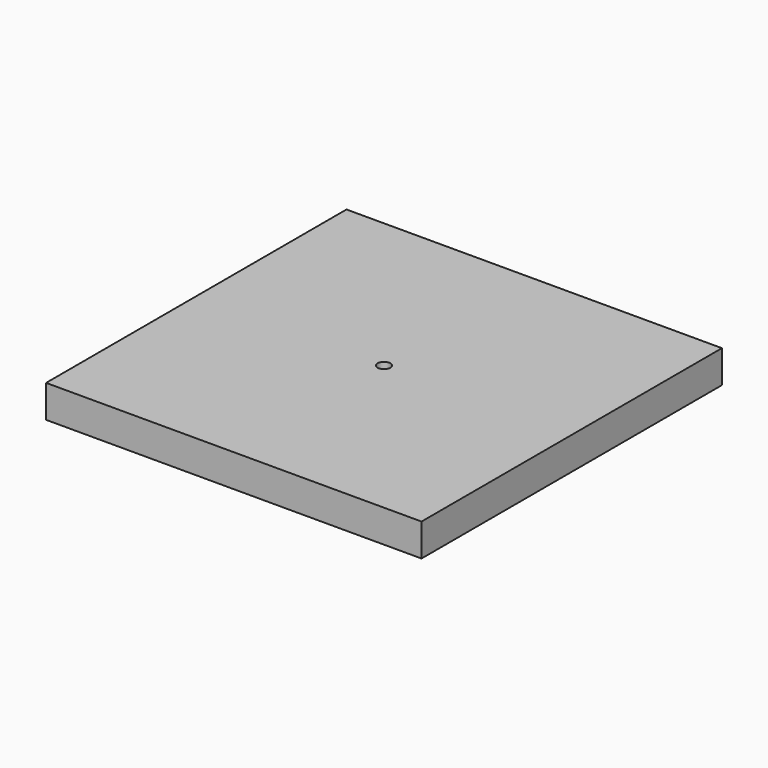
from build123d import *

# Parameters (mm, degrees)
F0_W     = 38.2953807712
F0_H     = 3.3215386793
F1_DEPTH = 38.3032
F4_D     = 1.27


with BuildPart() as f1:
    # F0 (on Front) → F1 (new body)
    with BuildSketch(Plane.XZ):
        Rectangle(F0_W, F0_H)
    extrude(amount=F1_DEPTH)


with BuildPart() as f1_1:
    # F2: moved
    add(f1.part.moved(Location((0, 19.1516, 0))))

    # F4 (through all)
    with Locations(Plane(origin=(0, 0, -1.6607693397), x_dir=(1, 0, 0), z_dir=(0, 0, -1))):
        with Locations((0, 0)):
            Hole(F4_D / 2)


solid = f1_1.part
